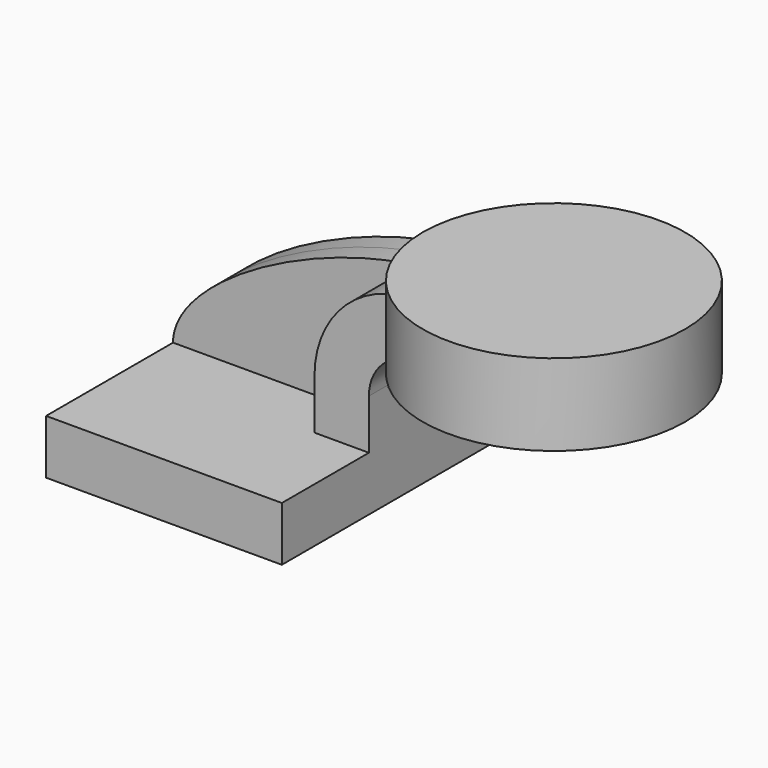
from build123d import *

# Parameters (mm, degrees)
F1_DEPTH = 63.5
F0_W     = 4.859683
F0_H     = 4.7752
F2_DEPTH = 25.4
F3_DEPTH = 7.9375


with BuildPart() as f1:
    # F0 (on Front) → F1 (new body, symmetric)
    with BuildSketch(Plane.XZ):
        Polygon((-41.275, 9.525), (-41.275, -9.525), (41.275, -9.525), (41.275, 9.525), (22.225, 9.525), align=None)
    extrude(amount=F1_DEPTH, both=True)

    # F0 (on Front) → F2 (join, symmetric)
    with BuildSketch(Plane.XZ):
        with BuildLine():
            Line((22.225, 9.525), (41.275, 9.525))
            Line((41.275, 9.525), (41.275, 27.0002))
            ThreePointArc((41.275, 27.0002), (45.92468, 38.22552), (57.15, 42.8752))
            Line((57.15, 42.8752), (80.865317, 42.8752))
            Line((80.865317, 42.8752), (80.865317, 61.9252))
            Line((80.865317, 61.9252), (57.15, 61.9252))
            ThreePointArc((57.15, 61.9252), (32.454296, 51.695904), (22.225, 27.0002))
            Line((22.225, 27.0002), (22.225, 9.525))
        make_face()
        with Locations((83.295158, 40.4876)):
            Rectangle(F0_W, F0_H)
    extrude(amount=F2_DEPTH, both=True)

    # F0 (on Front) → F3 (join, symmetric)
    with BuildSketch(Plane.XZ):
        with BuildLine():
            add(Edge.make_bspline(
                [(-41.275, 9.525), (-41.275, 31.890627), (15.217554, 61.9252), (57.15, 61.9252)],
                knots=[0, 0, 0, 0, 111.504536, 111.504536, 111.504536, 111.504536], degree=3))
            Line((-41.275, 9.525), (22.225, 9.525))
            Line((22.225, 9.525), (22.225, 27.0002))
            ThreePointArc((22.225, 27.0002), (32.454296, 51.695904), (57.15, 61.9252))
        make_face()
    extrude(amount=F3_DEPTH, both=True)

    # F0 (on Front) → F4 (revolve)
    with BuildSketch(Plane.XZ):
        Polygon((85.725, 66.675), (85.725, 61.9252), (85.725, 42.8752), (85.725, 38.1), (131.665317, 38.1), (131.665317, 66.675), align=None)
    revolve(axis=Axis((85.725, 0, 52.3875), (0, 0, 1)))


solid = f1.part
